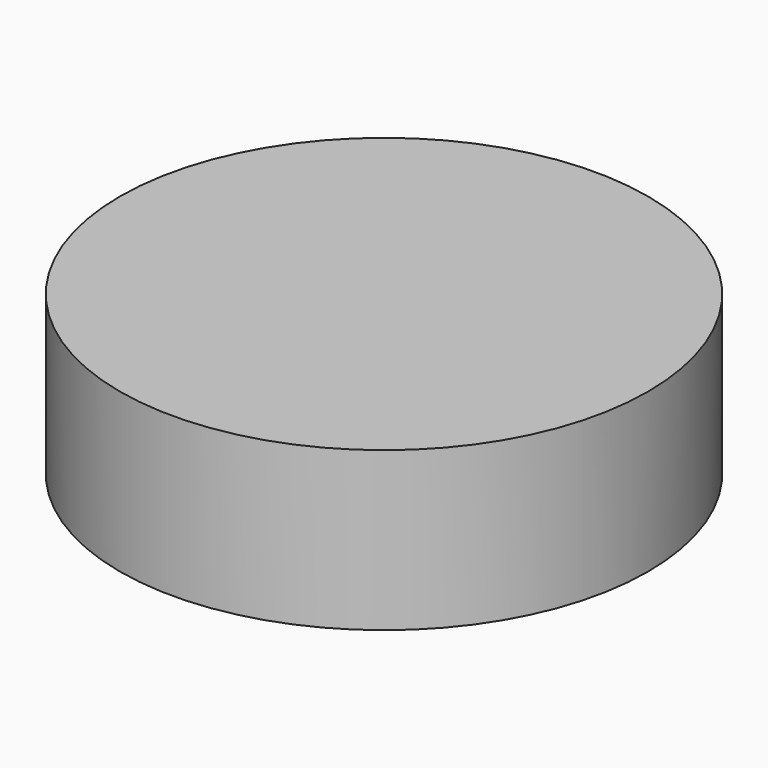
from build123d import *

# Parameters (mm, degrees)
F0_R     = 25
F1_DEPTH = 15
F2_R     = 23.5
F3_DEPTH = 10
F6_DEPTH = 10
F7_DEPTH = 10


with BuildPart() as f1:
    # F0 (on Top) → F1 (new body)
    with BuildSketch(Plane.XY):
        Circle(F0_R)
    extrude(amount=F1_DEPTH)

    # F2 (on face) → F3 (cut)
    with BuildSketch(Plane(origin=(0, 0, 0), x_dir=(1, 0, 0), z_dir=(0, 0, -1))):
        Circle(F2_R)
    extrude(amount=-F3_DEPTH, mode=Mode.SUBTRACT)

    # F5 (on face) → F6 (join)
    with BuildSketch(Plane(origin=(0, 0, 10), x_dir=(1, 0, 0), z_dir=(0, 0, -1))):
        Polygon((0, -10.9), (4.5870057685, -9), (0, -7.1), (-4.5870057685, -9), align=None)
        Polygon((7.1, 0), (9, -4.5870057685), (10.9, 0), (9, 4.5870057685), align=None)
        Polygon((0, 7.1), (4.5870057685, 9), (0, 10.9), (-4.5870057685, 9), align=None)
        Polygon((-7.1, 0), (-9, 4.5870057685), (-10.9, 0), (-9, -4.5870057685), align=None)
        Polygon((0, 15.1), (4.5870057685, 17), (0, 18.9), (-4.5870057685, 17), align=None)
        Polygon((-15.2643181644, 8.7773123959), (-10.6773123959, 10.6773123959), (-8.7773123959, 15.2643181644), (-13.3643181644, 13.3643181644), align=None)
        Polygon((-17, -4.5870057685), (-15.1, 0), (-17, 4.5870057685), (-18.9, 0), align=None)
        Polygon((-8.7773123959, -15.2643181644), (-10.6773123959, -10.6773123959), (-15.2643181644, -8.7773123959), (-13.3643181644, -13.3643181644), align=None)
        Polygon((4.5870057685, -17), (0, -15.1), (-4.5870057685, -17), (0, -18.9), align=None)
        Polygon((15.2643181644, -8.7773123959), (10.6773123959, -10.6773123959), (8.7773123959, -15.2643181644), (13.3643181644, -13.3643181644), align=None)
        Polygon((17, 4.5870057685), (15.1, 0), (17, -4.5870057685), (18.9, 0), align=None)
        Polygon((8.7773123959, 15.2643181644), (10.6773123959, 10.6773123959), (15.2643181644, 8.7773123959), (13.3643181644, 13.3643181644), align=None)
    extrude(amount=F6_DEPTH)

    # F4 (on face) → F7 (join)
    with BuildSketch(Plane(origin=(0, 0, 10), x_dir=(1, 0, 0), z_dir=(0, 0, -1))):
        with BuildLine():
            add(Edge.make_bspline(
                [(0, 3), (0, 1.9449878018), (1.905477955, 0), (3, 0)],
                knots=[0, 0, 0, 0, 4.2426406871, 4.2426406871, 4.2426406871, 4.2426406871], degree=3))
            add(Edge.make_bspline(
                [(0, 3), (0, 1.9449878018), (-1.905477955, 0), (-3, 0)],
                knots=[0, 0, 0, 0, 4.2426406871, 4.2426406871, 4.2426406871, 4.2426406871], degree=3))
            add(Edge.make_bspline(
                [(0, -3), (0, -1.9449878018), (-1.905477955, 0), (-3, 0)],
                knots=[0, 0, 0, 0, 4.2426406871, 4.2426406871, 4.2426406871, 4.2426406871], degree=3))
            add(Edge.make_bspline(
                [(0, -3), (0, -1.9449878018), (1.905477955, 0), (3, 0)],
                knots=[0, 0, 0, 0, 4.2426406871, 4.2426406871, 4.2426406871, 4.2426406871], degree=3))
        make_face()
    extrude(amount=F7_DEPTH)


solid = f1.part
